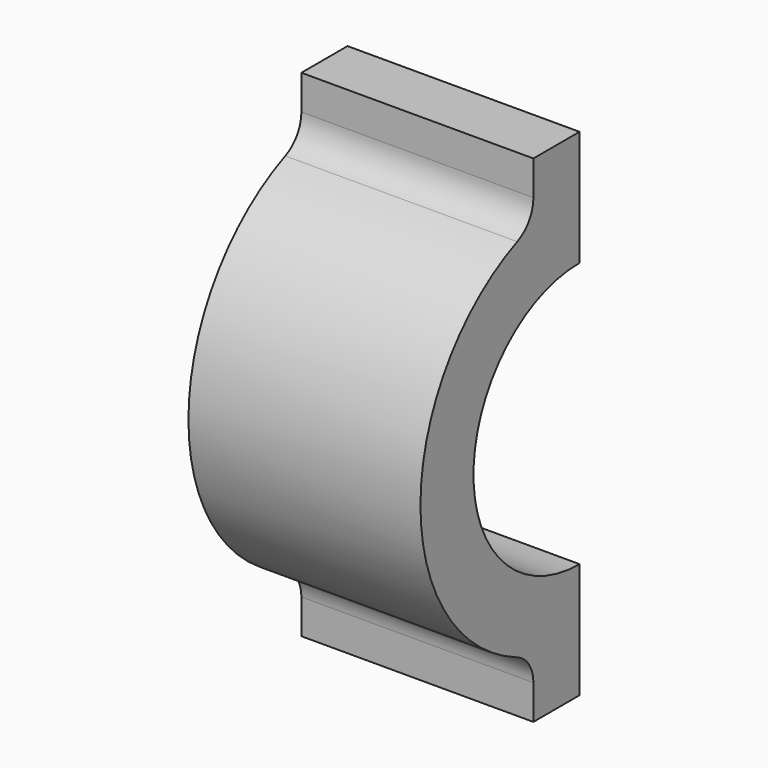
from build123d import *

# Parameters (mm, degrees)
F1_DEPTH = 35
F2_R     = 5


with BuildPart() as f1:
    # F0 (on Right) → F1 (new body)
    with BuildSketch(Plane.YZ):
        with BuildLine():
            ThreePointArc((0, -20), (-20, 0), (0, 20))
            Line((0, 20), (0, 37.416574))
            Line((0, 37.416574), (-8.708287, 37.416574))
            Line((-8.708287, 37.416574), (-8.708287, 28.708287))
            ThreePointArc((-8.708287, 28.708287), (-30, 0), (-8.708287, -28.708287))
            Line((-8.708287, -28.708287), (-8.708287, -37.416574))
            Line((-8.708287, -37.416574), (0, -37.416574))
            Line((0, -37.416574), (0, -20))
        make_face()
    extrude(amount=F1_DEPTH)

    # F2
    f2_edges = [f1.edges().sort_by_distance(p)[0] for p in [
        (17.5, -8.708287, 28.708287),
        (17.5, -8.708287, -28.708287),
    ]]
    fillet(f2_edges, radius=F2_R)


solid = f1.part
